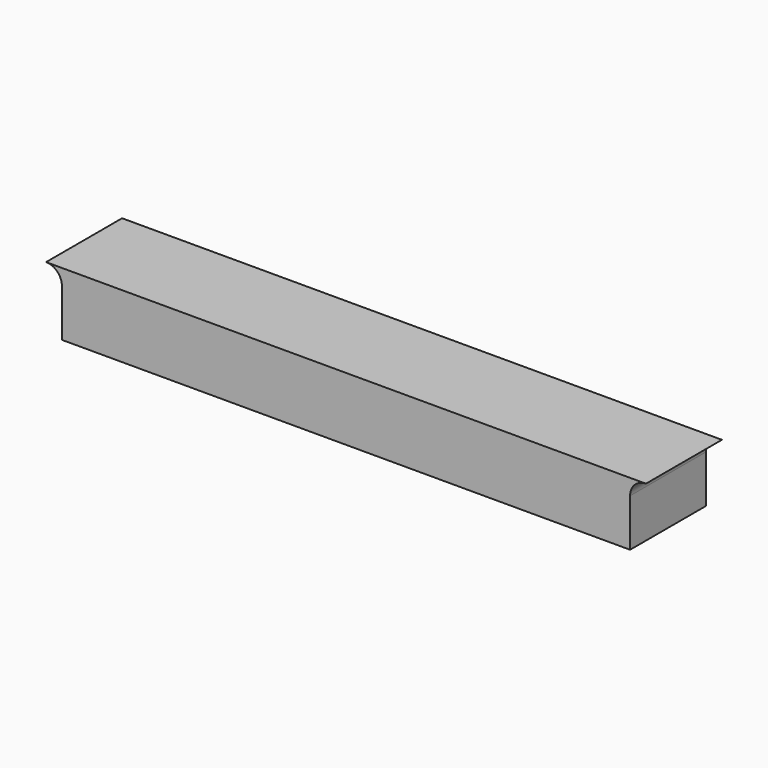
from build123d import *

# Parameters (mm, degrees)
F1_DEPTH = 19.05


with BuildPart() as f1:
    # F0 (on Front) → F1 (new body)
    with BuildSketch(Plane.XZ):
        with BuildLine():
            ThreePointArc((115.38966, 3.175), (116.319596, 5.420064), (118.56466, 6.35))
            Line((118.56466, 6.35), (-1.71196, 6.35))
            ThreePointArc((-1.71196, 6.35), (0.533104, 5.420064), (1.46304, 3.175))
            Line((1.46304, 3.175), (1.46304, -6.35))
            Line((1.46304, -6.35), (115.38966, -6.35))
            Line((115.38966, -6.35), (115.38966, 3.175))
        make_face()
    extrude(amount=F1_DEPTH)


solid = f1.part
